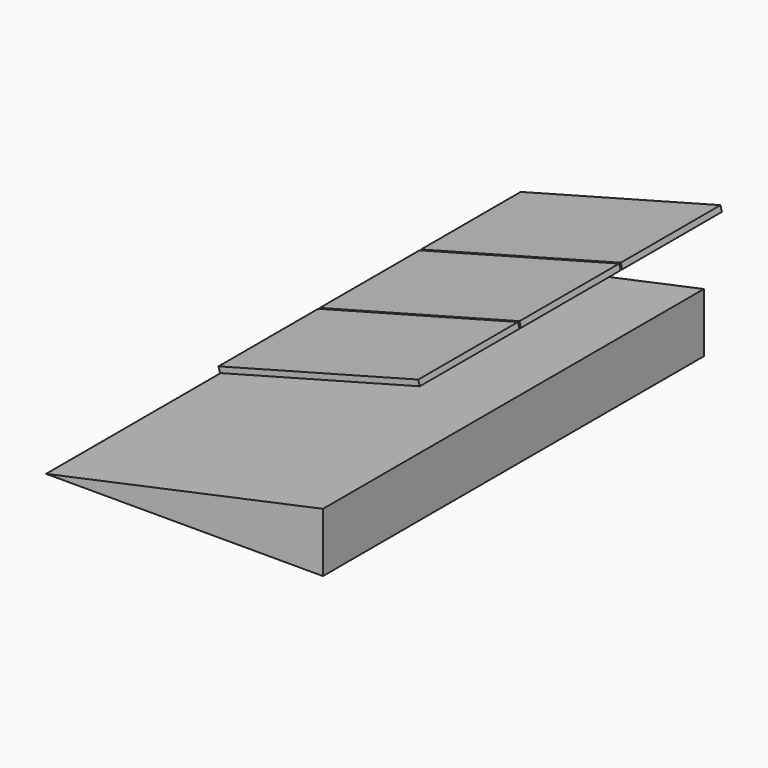
from build123d import *

# Parameters (mm, degrees)
F1_DEPTH = 3800
F2_DEPTH = 995


with BuildPart() as f1:
    # F0 (on Front) → F1 (new body)
    with BuildSketch(Plane.XZ):
        Polygon((2136.7415607675, 472.7578661429), (-73.2584392325, 0), (2136.7415607675, 0), align=None)
    extrude(amount=F1_DEPTH)

    # F0 (on Front) → F2 (join)
    with BuildSketch(Plane.XZ):
        Polygon((2136.7415607675, 472.7578661429), (-73.2584392325, 0), (2136.7415607675, 0), align=None)
    extrude(amount=F2_DEPTH)


with BuildPart() as f2:
    # F0 (on Front) → F2, piece 2 (new body)
    with BuildSketch(Plane.XZ):
        Polygon((2269.3471908569, 1104.9562692642), (675.0911904414, 679.6942263553), (686.6892461571, 636.214517253), (2280.9452465726, 1061.476560162), align=None)
    extrude(amount=F2_DEPTH)


with BuildPart() as f3_1:
    # F3: copy of F2
    add(f2.part.moved(Location((0, -1010, 0))))


with BuildPart() as f4_1:
    # F4: copy of F3_1
    add(f3_1.part.moved(Location((0, -1010, 0))))


solid = Compound([f1.part, f2.part, f3_1.part, f4_1.part])
